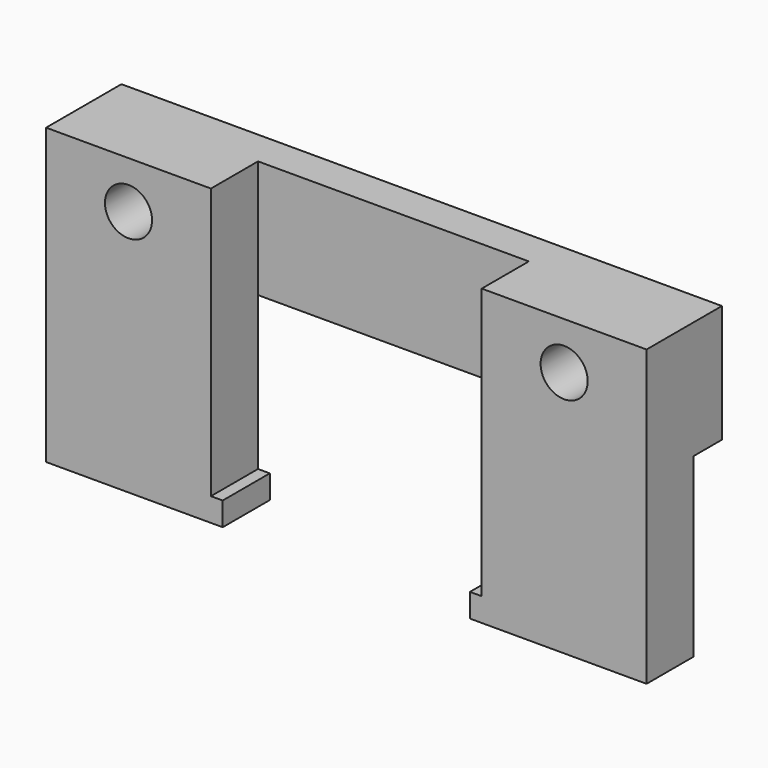
from build123d import *

# Parameters (mm, degrees)
CYLINDER295_R     = 2
CYLINDER295_DEPTH = 20
CYLINDER294_R     = 2
CYLINDER294_DEPTH = 20
BOX385_W          = 2
BOX385_H          = 5
BOX385_DEPTH      = 2
BOX025_W          = 23
BOX025_H          = 5
BOX025_DEPTH      = 25
BOX026_W          = 51
BOX026_H          = 5
BOX026_DEPTH      = 10
BOX024_W          = 51
BOX024_H          = 5
BOX024_DEPTH      = 25
BOX384_W          = 2
BOX384_H          = 5
BOX384_DEPTH      = 2


with BuildPart() as cylinder295:
    # Cylinder295 → Cylinder295 (new body)
    with BuildSketch(Plane(origin=(-16, -88, 43), x_dir=(1, 0, 0), z_dir=(0, -1, 0))):
        Circle(CYLINDER295_R)
    extrude(amount=CYLINDER295_DEPTH)


with BuildPart() as fusion233:
    # Cylinder294 → Cylinder294 (new body)
    with BuildSketch(Plane(origin=(-53, -88, 43), x_dir=(1, 0, 0), z_dir=(0, -1, 0))):
        Circle(CYLINDER294_R)
    extrude(amount=CYLINDER294_DEPTH)

    # Fusion233: union Cylinder295
    add(cylinder295.part)


with BuildPart() as box385:
    # Box385 → Box385 (new body)
    with BuildSketch(Plane(origin=(-24, -93, 26), x_dir=(1, 0, 0), z_dir=(0, 0, 1))):
        with Locations((1, 2.5)):
            Rectangle(BOX385_W, BOX385_H)
    extrude(amount=BOX385_DEPTH)


with BuildPart() as box025:
    # Box025 → Box025 (new body)
    with BuildSketch(Plane(origin=(-37, -93, 16), x_dir=(1, 0, 0), z_dir=(0, 0, 1))):
        with Locations((11.5, 2.5)):
            Rectangle(BOX025_W, BOX025_H)
    extrude(amount=BOX025_DEPTH)


with BuildPart() as box026:
    # Box026 → Box026 (new body)
    with BuildSketch(Plane(origin=(-51, -90, 31), x_dir=(1, 0, 0), z_dir=(0, 0, 1))):
        with Locations((25.5, 2.5)):
            Rectangle(BOX026_W, BOX026_H)
    extrude(amount=BOX026_DEPTH)


with BuildPart() as cut268:
    # Box024 → Box024 (new body)
    with BuildSketch(Plane(origin=(-51, -93, 16), x_dir=(1, 0, 0), z_dir=(0, 0, 1))):
        with Locations((25.5, 2.5)):
            Rectangle(BOX024_W, BOX024_H)
    extrude(amount=BOX024_DEPTH)

    # Fusion223: union Box026
    add(box026.part)

    # Cut268: cut Box025
    add(box025.part, mode=Mode.SUBTRACT)


with BuildPart() as cut268_1:
    # Cut268 placement: moved
    add(cut268.part.moved(Location((-9, 0, 10))))


with BuildPart() as cut280:
    # Box384 → Box384 (new body)
    with BuildSketch(Plane(origin=(-47, -93, 26), x_dir=(1, 0, 0), z_dir=(0, 0, 1))):
        with Locations((1, 2.5)):
            Rectangle(BOX384_W, BOX384_H)
    extrude(amount=BOX384_DEPTH)

    # Fusion224: union Box385, Cut268
    add(box385.part)
    add(cut268_1.part)


with BuildPart() as cut280_1:
    # Fusion224 placement: moved
    add(cut280.part.moved(Location((0, -5, -4))))

    # Cut280: cut Fusion233
    add(fusion233.part, mode=Mode.SUBTRACT)


solid = cut280_1.part
